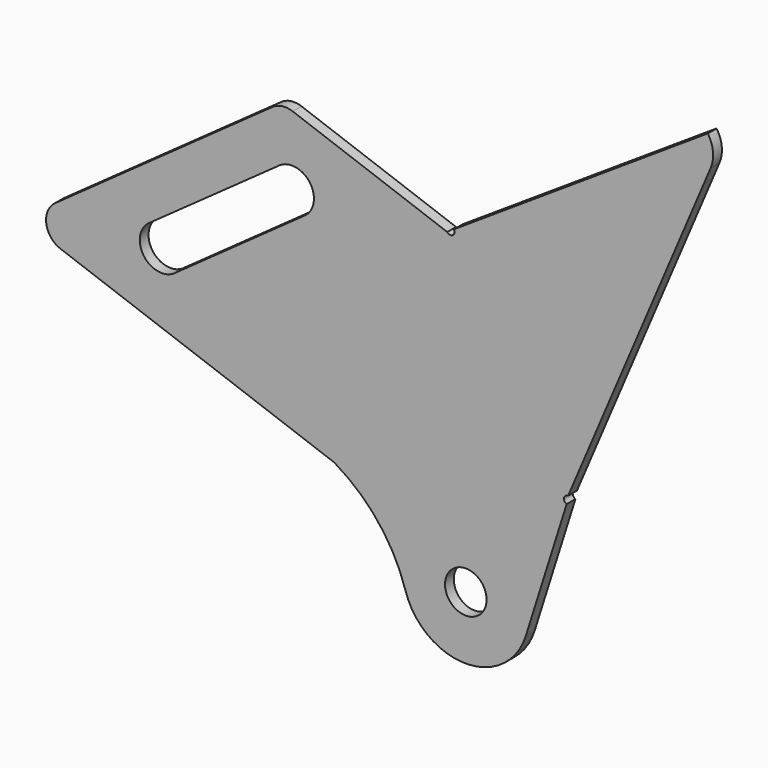
from build123d import *

# Parameters (mm, degrees)
F0_R     = 6
F1_DEPTH = 3.175


with BuildPart() as f1:
    # F0 (on Front) → F1 (new body)
    with BuildSketch(Plane.XZ):
        with BuildLine():
            Line((53.717377, 26.38043), (53.627871, 26.516549))
            Line((53.627871, 26.516549), (-19.679138, -21.686515))
            ThreePointArc((-19.679138, -21.686515), (-19.987733, -23.257136), (-21.564058, -22.979148))
            Line((-21.564058, -22.979148), (-66.192053, -6.823604))
            ThreePointArc((-66.192053, -6.823604), (-69.218348, -6.503583), (-72.046016, -7.628378))
            Line((-72.046016, -7.628378), (-134.714284, -52.421458))
            ThreePointArc((-134.714284, -52.421458), (-137.312614, -58.452327), (-133.183244, -63.558305))
            Line((-133.183244, -63.558305), (-96.7759, -76.737935))
            Line((-96.7759, -76.737935), (-54.216249, -92.144729))
            ThreePointArc((-54.216249, -92.144729), (-41.425036, -103.220983), (-33.558428, -118.201472))
            ThreePointArc((-33.558428, -118.201472), (-16.219354, -130.907908), (1.119721, -118.201472))
            Line((1.119721, -118.201472), (12.903903, -80.896124))
            ThreePointArc((12.903903, -80.896124), (12.124163, -79.598818), (13.315524, -78.665194))
            Line((13.315524, -78.665194), (54.469111, 18.014238))
            ThreePointArc((54.469111, 18.014238), (55.143673, 22.291719), (53.717377, 26.38043))
        make_face()
        with Locations((-16.219354, -112.724327)):
            Circle(F0_R, mode=Mode.SUBTRACT)
        with BuildLine():
            ThreePointArc((-100.28747, -59.035607), (-109.147166, -57.56172), (-107.67091, -48.702418))
            Line((-107.67091, -48.702418), (-70.481515, -22.144254))
            ThreePointArc((-70.481515, -22.144254), (-61.301944, -23.221793), (-62.921751, -32.321345))
            Line((-62.921751, -32.321345), (-100.28747, -59.035607))
        make_face(mode=Mode.SUBTRACT)
    extrude(amount=F1_DEPTH)


solid = f1.part
